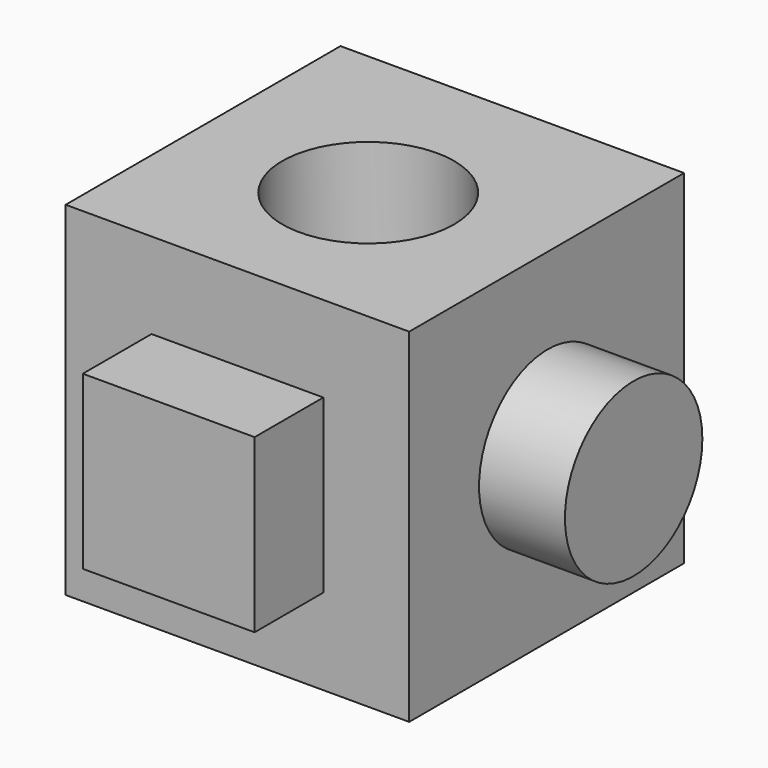
from build123d import *

# Parameters (mm, degrees)
F0_W     = 50.8
F0_H     = 50.8
F1_DEPTH = 50.8
F2_W     = 25.4
F2_H     = 25.4
F3_DEPTH = 12.7
F4_R     = 12.7
F5_DEPTH = 12.7
F6_R     = 12.7
F7_DEPTH = 25.4


with BuildPart() as f1:
    # F0 (on Front) → F1 (new body)
    with BuildSketch(Plane.XZ):
        Rectangle(F0_W, F0_H)
    extrude(amount=F1_DEPTH)

    # F2 (on face) → F3 (join)
    with BuildSketch(Plane.XZ.offset(50.8)):
        Rectangle(F2_W, F2_H)
    extrude(amount=F3_DEPTH)

    # F4 (on face) → F5 (join)
    with BuildSketch(Plane.YZ.offset(25.4)):
        with Locations((-25.19346, 0)):
            Circle(F4_R)
    extrude(amount=F5_DEPTH)

    # F6 (on face) → F7 (cut)
    with BuildSketch(Plane.XY.offset(25.4)):
        with Locations((0, -26.625345)):
            Circle(F6_R)
    extrude(amount=-F7_DEPTH, mode=Mode.SUBTRACT)


solid = f1.part
